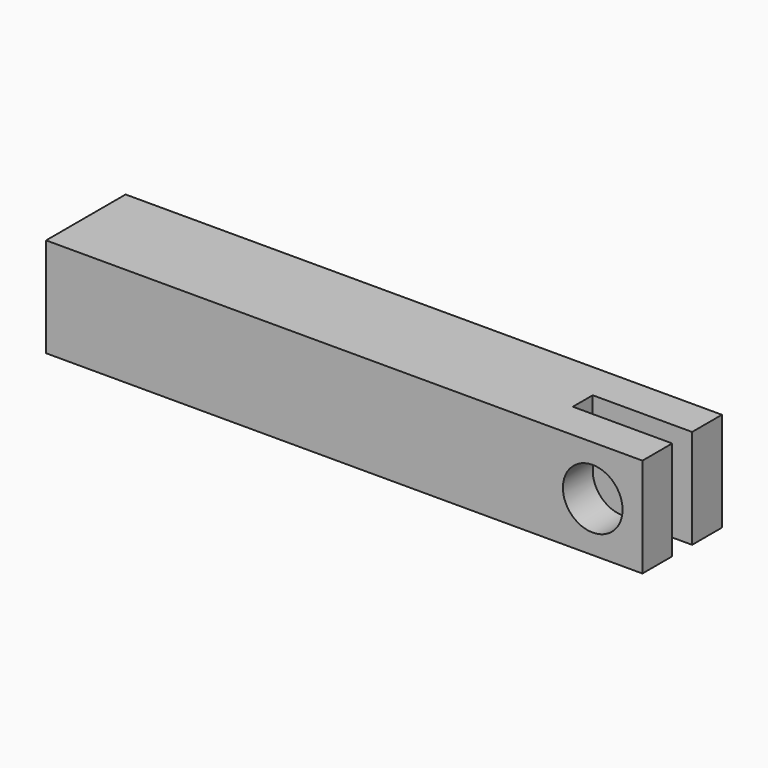
from build123d import *

# Parameters (mm, degrees)
F0_W     = 25.4
F0_H     = 25.4
F1_DEPTH = 76.2
F2_R     = 7.62
F3_DEPTH = 25.4
F4_W     = 6.35
F4_H     = 25.4
F5_DEPTH = 25.4


with BuildPart() as f1:
    # F0 (on Right) → F1 (new body, symmetric)
    with BuildSketch(Plane.YZ):
        Rectangle(F0_W, F0_H)
    extrude(amount=F1_DEPTH, both=True)

    # F2 (on face) → F3 (cut, through all)
    with BuildSketch(Plane.XZ.offset(12.7)):
        with Locations((63.5, 0)):
            Circle(F2_R)
    extrude(amount=-F3_DEPTH, mode=Mode.SUBTRACT)

    # F4 (on face) → F5 (cut)
    with BuildSketch(Plane.YZ.offset(76.2)):
        Rectangle(F4_W, F4_H)
    extrude(amount=-F5_DEPTH, mode=Mode.SUBTRACT)


solid = f1.part
